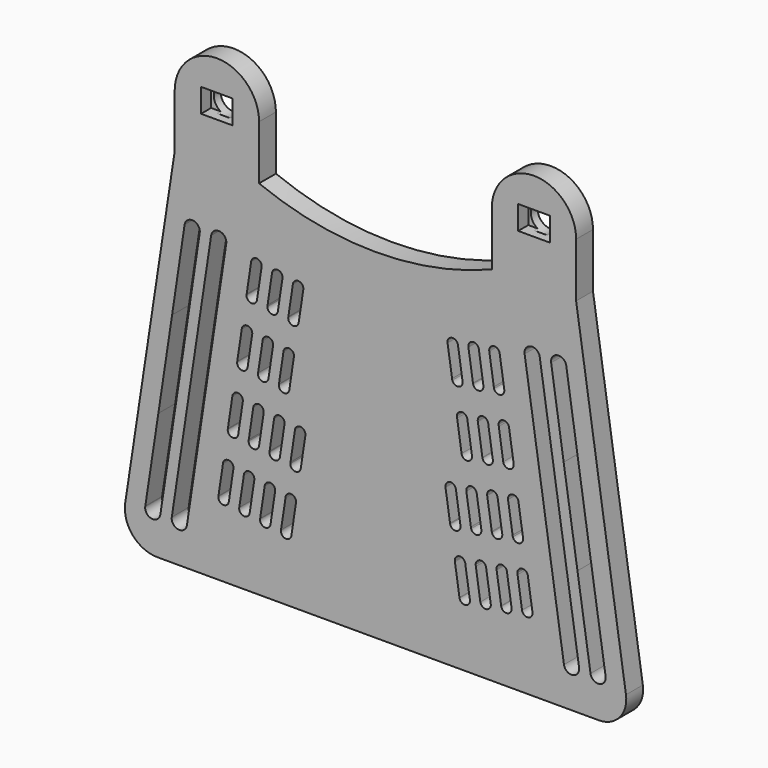
from build123d import *

# Parameters (mm, degrees)
F2_DEPTH  = 4
F4_DEPTH  = 45
F7_DEPTH  = 5
F8_SIZE   = 4
F10_DEPTH = 0.5
F11_W     = 6
F11_H     = 4.5
F12_DEPTH = 2.4
F13_R     = 2.5
F14_DEPTH = 2.4
F15_SCALE = 1.265


with BuildPart() as f2:
    # F1 (on Front) → F2 (new body)
    with BuildSketch(Plane.XZ):
        with BuildLine():
            Line((-22.0757527815, 25.2680218696), (-22.0757527815, 35.5637454262))
            ThreePointArc((-22.0757527815, 35.5637454262), (-30.0757527815, 27.5637454262), (-38.0757527815, 35.5637454262))
            Line((-38.0757527815, 35.5637454262), (-38.0757527815, 25.4128891975))
            Line((-38.0757527815, 25.4128891975), (-47.4559207025, -36.329181879))
            ThreePointArc((-47.4559207025, -36.329181879), (-46.0356215568, -41.2754957961), (-41.3587527006, -43.4226261443))
            Line((-41.3587527006, -43.4226261443), (42.4087057782, -43.4226261443))
            ThreePointArc((42.4087057782, -43.4226261443), (46.3255480791, -41.625651264), (47.5181205277, -37.4845712979))
            Line((47.5181205277, -37.4845712979), (38.0620640947, 25.195091801))
            Line((38.0620640947, 25.195091801), (38.0620640947, 35.5046242638))
            ThreePointArc((38.0620640947, 35.5046242638), (30.0620640947, 27.5046242638), (22.0620640947, 35.5046242638))
            Line((22.0620640947, 35.5046242638), (22.0620640947, 25.2625174648))
            ThreePointArc((22.0620640947, 25.2625174648), (-0.0073767321, 20.996238466), (-22.0757527815, 25.2680218696))
        make_face()
        with BuildLine():
            ThreePointArc((-24.9199371364, -24.1236979149), (-23.8152684216, -23.4298992023), (-22.9644436101, -24.4187099846))
            ThreePointArc((-22.9644436101, -24.4187099846), (-22.9650352879, -24.4531048297), (-22.9668096209, -24.4874589735))
            ThreePointArc((-22.9668096209, -24.4874589735), (-22.9755782668, -24.5675230646), (-22.9907618284, -24.6466217832))
            Line((-22.9907618284, -24.6466217832), (-23.8457765819, -30.3282087618))
            ThreePointArc((-23.8457765819, -30.3282087618), (-23.8516515262, -30.3745925481), (-23.859688101, -30.4206510334))
            ThreePointArc((-23.859688101, -30.4206510334), (-25.0135017777, -31.2107039431), (-25.829048725, -30.0747669831))
            Line((-25.829048725, -30.0747669831), (-24.9644367032, -24.4149932836))
            ThreePointArc((-24.9644367032, -24.4149932836), (-24.9529754647, -24.2676974935), (-24.9199371364, -24.1236979149))
        make_face(mode=Mode.SUBTRACT)
        with BuildLine():
            ThreePointArc((-27.8066737044, -29.7764160909), (-28.9210386465, -30.6212003096), (-29.790425001, -29.5259209082))
            ThreePointArc((-29.790425001, -29.5259209082), (-29.7845160872, -29.479541437), (-29.7764457816, -29.4334888499))
            Line((-29.7764457816, -29.4334888499), (-28.9172701097, -23.7525296011))
            ThreePointArc((-28.9172701097, -23.7525296011), (-28.9084428278, -23.6724719536), (-28.8932013391, -23.5933843765))
            ThreePointArc((-28.8932013391, -23.5933843765), (-27.8046098081, -22.8286526481), (-26.9196867392, -23.8220092306))
            ThreePointArc((-26.9196867392, -23.8220092306), (-26.9306004441, -23.9693466013), (-26.9631033409, -24.1134679789))
            Line((-26.9631033409, -24.1134679789), (-27.8066737044, -29.7764160909))
        make_face(mode=Mode.SUBTRACT)
        with BuildLine():
            ThreePointArc((-19.8961874462, -30.969817599), (-21.0105523884, -31.8146018177), (-21.8799387429, -30.7193224163))
            ThreePointArc((-21.8799387429, -30.7193224163), (-21.874029829, -30.6729429451), (-21.8659595235, -30.6268903581))
            Line((-21.8659595235, -30.6268903581), (-21.0067838516, -24.9459311092))
            ThreePointArc((-21.0067838516, -24.9459311092), (-20.9979565697, -24.8658734616), (-20.9827150809, -24.7867858846))
            ThreePointArc((-20.9827150809, -24.7867858846), (-19.8941235499, -24.0220541562), (-19.0092004811, -25.0154107387))
            ThreePointArc((-19.0092004811, -25.0154107387), (-19.020114186, -25.1627481094), (-19.0526170827, -25.306869487))
            Line((-19.0526170827, -25.306869487), (-19.8961874462, -30.969817599))
        make_face(mode=Mode.SUBTRACT)
        with BuildLine():
            ThreePointArc((-17.0094508783, -25.317099423), (-15.9047821635, -24.6233007104), (-15.053957352, -25.6121114927))
            ThreePointArc((-15.053957352, -25.6121114927), (-15.0545490297, -25.6465063378), (-15.0563233627, -25.6808604816))
            ThreePointArc((-15.0563233627, -25.6808604816), (-15.0650920087, -25.7609245727), (-15.0802755703, -25.8400232914))
            Line((-15.0802755703, -25.8400232914), (-15.9352903237, -31.5216102698))
            ThreePointArc((-15.9352903237, -31.5216102698), (-15.941165268, -31.5679940562), (-15.9492018429, -31.6140525415))
            ThreePointArc((-15.9492018429, -31.6140525415), (-17.1030155195, -32.4041054512), (-17.9185624669, -31.2681684912))
            Line((-17.9185624669, -31.2681684912), (-17.053950445, -25.6083947917))
            ThreePointArc((-17.053950445, -25.6083947917), (-17.0424892066, -25.4610990016), (-17.0094508783, -25.317099423))
        make_face(mode=Mode.SUBTRACT)
        with BuildLine():
            ThreePointArc((-36.1949154749, 13.7739959713), (-34.6532206267, 15.0052036262), (-33.3109119043, 13.5592082636))
            ThreePointArc((-33.3109119043, 13.5592082636), (-33.3149165876, 13.4515163698), (-33.3269085167, 13.3444193337))
            Line((-33.3269085167, 13.3444193337), (-35.6996770762, -2.4969843837))
            Line((-35.6996770762, -2.4969843837), (-38.3178854277, -19.7808170622))
            Line((-38.3178854277, -19.7808170622), (-40.7919538192, -36.1175705818))
            ThreePointArc((-40.7919538192, -36.1175705818), (-42.4145058399, -37.3367570396), (-43.6665870189, -35.7394519968))
            ThreePointArc((-43.6665870189, -35.7394519968), (-43.6589362776, -35.6812091163), (-43.64893273, -35.6233239195))
            Line((-43.64893273, -35.6233239195), (-41.1731284531, -19.3377407819))
            Line((-41.1731284531, -19.3377407819), (-38.5676705325, -2.0674097685))
            Line((-38.5676705325, -2.0674097685), (-36.1949154749, 13.7739959713))
        make_face(mode=Mode.SUBTRACT)
        with BuildLine():
            ThreePointArc((-31.1629785279, 13.610654525), (-29.6212836796, 14.8418621799), (-28.2789749572, 13.3958668173))
            ThreePointArc((-28.2789749572, 13.3958668173), (-28.2830367376, 13.2874109962), (-28.2951993229, 13.179562794))
            Line((-28.2951993229, 13.179562794), (-35.7567134008, -36.279235588))
            ThreePointArc((-35.7567134008, -36.279235588), (-37.40679307, -37.4967071972), (-38.6242646658, -35.8466275181))
            Line((-38.6242646658, -35.8466275181), (-31.1629785279, 13.610654525))
        make_face(mode=Mode.SUBTRACT)
        with BuildLine():
            ThreePointArc((-27.1192628681, -11.8200681817), (-26.0405279416, -11.0197440959), (-25.1384340996, -12.0149397471))
            ThreePointArc((-25.1384340996, -12.0149397471), (-25.1413052575, -12.0906634042), (-25.1499022441, -12.1659522321))
            Line((-25.1499022441, -12.1659522321), (-26.0145142659, -17.8257259315))
            ThreePointArc((-26.0145142659, -17.8257259315), (-26.0259755044, -17.9730217217), (-26.0590138327, -18.1170213003))
            ThreePointArc((-26.0590138327, -18.1170213003), (-27.1976042776, -18.805104098), (-28.0121413482, -17.7532602416))
            ThreePointArc((-28.0121413482, -17.7532602416), (-28.0033727023, -17.6731961505), (-27.9881891407, -17.5940974319))
            Line((-27.9881891407, -17.5940974319), (-27.1331743873, -11.9125104535))
            ThreePointArc((-27.1331743873, -11.9125104535), (-27.127299443, -11.8661266671), (-27.1192628681, -11.8200681817))
        make_face(mode=Mode.SUBTRACT)
        with BuildLine():
            ThreePointArc((-24.2441684252, -6.162277124), (-25.3585333674, -7.0070613427), (-26.2279197218, -5.9117819413))
            ThreePointArc((-26.2279197218, -5.9117819413), (-26.222010808, -5.8654024701), (-26.2139405024, -5.819349883))
            Line((-26.2139405024, -5.819349883), (-25.3547648305, -0.1383906342))
            ThreePointArc((-25.3547648305, -0.1383906342), (-25.3459375487, -0.0583329867), (-25.3306960599, 0.0207545905))
            ThreePointArc((-25.3306960599, 0.0207545905), (-24.2421045289, 0.7854863188), (-23.3571814601, -0.2078702636))
            ThreePointArc((-23.3571814601, -0.2078702636), (-23.3680951649, -0.3552076344), (-23.4005980617, -0.499329012))
            Line((-23.4005980617, -0.499329012), (-24.2441684252, -6.162277124))
        make_face(mode=Mode.SUBTRACT)
        with BuildLine():
            ThreePointArc((-14.1752633719, -19.8407363468), (-15.2638549029, -20.6054680752), (-16.1487779717, -19.6121114927))
            ThreePointArc((-16.1487779717, -19.6121114927), (-16.1378642669, -19.464774122), (-16.1053613701, -19.3206527444))
            Line((-16.1053613701, -19.3206527444), (-15.2617910066, -13.6577046323))
            ThreePointArc((-15.2617910066, -13.6577046323), (-14.198834198, -12.807774168), (-13.2727047124, -13.8050420092))
            ThreePointArc((-13.2727047124, -13.8050420092), (-13.2740393524, -13.8566898434), (-13.27803971, -13.9081998151))
            ThreePointArc((-13.27803971, -13.9081998151), (-13.2839486238, -13.9545792862), (-13.2920189294, -14.0006318733))
            Line((-13.2920189294, -14.0006318733), (-14.1511946013, -19.6815911222))
            ThreePointArc((-14.1511946013, -19.6815911222), (-14.1600218831, -19.7616487697), (-14.1752633719, -19.8407363468))
        make_face(mode=Mode.SUBTRACT)
        with BuildLine():
            ThreePointArc((-22.0857496301, -18.6473348387), (-23.1743411611, -19.4120665671), (-24.0592642299, -18.4187099846))
            ThreePointArc((-24.0592642299, -18.4187099846), (-24.048350525, -18.2713726139), (-24.0158476283, -18.1272512363))
            Line((-24.0158476283, -18.1272512363), (-23.1722772648, -12.4643031242))
            ThreePointArc((-23.1722772648, -12.4643031242), (-22.1093204561, -11.6143726599), (-21.1831909706, -12.6116405012))
            ThreePointArc((-21.1831909706, -12.6116405012), (-21.1845256106, -12.6632883353), (-21.1885259681, -12.714798307))
            ThreePointArc((-21.1885259681, -12.714798307), (-21.1944348819, -12.7611777781), (-21.2025051875, -12.8072303652))
            Line((-21.2025051875, -12.8072303652), (-22.0616808594, -18.4881896141))
            ThreePointArc((-22.0616808594, -18.4881896141), (-22.0705081413, -18.5682472616), (-22.0857496301, -18.6473348387))
        make_face(mode=Mode.SUBTRACT)
        with BuildLine():
            ThreePointArc((-18.1485275746, -19.3104228084), (-19.2871180194, -19.9985056061), (-20.1016550901, -18.9466617497))
            ThreePointArc((-20.1016550901, -18.9466617497), (-20.0928864441, -18.8665976586), (-20.0777028825, -18.78749894))
            Line((-20.0777028825, -18.78749894), (-19.2226881291, -13.1059119615))
            ThreePointArc((-19.2226881291, -13.1059119615), (-19.2168131848, -13.0595281752), (-19.2087766099, -13.0134696898))
            ThreePointArc((-19.2087766099, -13.0134696898), (-18.1300416835, -12.213145604), (-17.2279478415, -13.2083412552))
            ThreePointArc((-17.2279478415, -13.2083412552), (-17.2308189994, -13.2840649122), (-17.239415986, -13.3593537401))
            Line((-17.239415986, -13.3593537401), (-18.1040280078, -19.0191274396))
            ThreePointArc((-18.1040280078, -19.0191274396), (-18.1154892462, -19.1664232298), (-18.1485275746, -19.3104228084))
        make_face(mode=Mode.SUBTRACT)
        with BuildLine():
            ThreePointArc((-21.3574318572, -0.509558948), (-20.2527631425, 0.1842397646), (-19.401938331, -0.8045710177))
            ThreePointArc((-19.401938331, -0.8045710177), (-19.4025300087, -0.8389658628), (-19.4043043417, -0.8733200066))
            ThreePointArc((-19.4043043417, -0.8733200066), (-19.4130729877, -0.9533840977), (-19.4282565493, -1.0324828164))
            Line((-19.4282565493, -1.0324828164), (-20.2832713027, -6.7140697948))
            ThreePointArc((-20.2832713027, -6.7140697948), (-20.289146247, -6.7604535812), (-20.2971828219, -6.8065120665))
            ThreePointArc((-20.2971828219, -6.8065120665), (-21.4509964985, -7.5965649762), (-22.2665434458, -6.4606280162))
            Line((-22.2665434458, -6.4606280162), (-21.401931424, -0.8008543167))
            ThreePointArc((-21.401931424, -0.8008543167), (-21.3904701856, -0.6535585266), (-21.3574318572, -0.509558948))
        make_face(mode=Mode.SUBTRACT)
        with BuildLine():
            ThreePointArc((-16.333682167, -7.3556786321), (-17.4480471092, -8.2004628508), (-18.3174334637, -7.1051834494))
            ThreePointArc((-18.3174334637, -7.1051834494), (-18.3115245499, -7.0588039782), (-18.3034542443, -7.0127513911))
            Line((-18.3034542443, -7.0127513911), (-17.4442785724, -1.3317921423))
            ThreePointArc((-17.4442785724, -1.3317921423), (-17.4354512905, -1.2517344948), (-17.4202098017, -1.1726469176))
            ThreePointArc((-17.4202098017, -1.1726469176), (-16.3316182707, -0.4079151893), (-15.4466952019, -1.4012717717))
            ThreePointArc((-15.4466952019, -1.4012717717), (-15.4576089068, -1.5486091425), (-15.4901118035, -1.6927305201))
            Line((-15.4901118035, -1.6927305201), (-16.333682167, -7.3556786321))
        make_face(mode=Mode.SUBTRACT)
        with BuildLine():
            ThreePointArc((17.9185624669, -31.2681684912), (17.9271594534, -31.3434573191), (17.9300306113, -31.4191809762))
            ThreePointArc((17.9300306113, -31.4191809762), (17.0279367694, -32.4143766274), (15.9492018429, -31.6140525415))
            ThreePointArc((15.9492018429, -31.6140525415), (15.941165268, -31.5679940562), (15.9352903237, -31.5216102698))
            Line((15.9352903237, -31.5216102698), (15.0802755703, -25.8400232914))
            ThreePointArc((15.0802755703, -25.8400232914), (15.0650920087, -25.7609245727), (15.0563233627, -25.6808604816))
            ThreePointArc((15.0563233627, -25.6808604816), (15.8708604334, -24.6290166253), (17.0094508783, -25.317099423))
            ThreePointArc((17.0094508783, -25.317099423), (17.0424892066, -25.4610990016), (17.053950445, -25.6083947917))
            Line((17.053950445, -25.6083947917), (17.9185624669, -31.2681684912))
        make_face(mode=Mode.SUBTRACT)
        with BuildLine():
            ThreePointArc((21.8799387429, -30.7193224163), (21.8839391004, -30.7708323879), (21.8852737404, -30.8224802221))
            ThreePointArc((21.8852737404, -30.8224802221), (20.9591442548, -31.8197480633), (19.8961874462, -30.969817599))
            Line((19.8961874462, -30.969817599), (19.0526170827, -25.306869487))
            ThreePointArc((19.0526170827, -25.306869487), (19.020114186, -25.1627481094), (19.0092004811, -25.0154107387))
            ThreePointArc((19.0092004811, -25.0154107387), (19.8941235499, -24.0220541562), (20.9827150809, -24.7867858846))
            ThreePointArc((20.9827150809, -24.7867858846), (20.9979565697, -24.8658734616), (21.0067838516, -24.9459311092))
            Line((21.0067838516, -24.9459311092), (21.8659595235, -30.6268903581))
            ThreePointArc((21.8659595235, -30.6268903581), (21.874029829, -30.6729429451), (21.8799387429, -30.7193224163))
        make_face(mode=Mode.SUBTRACT)
        with BuildLine():
            ThreePointArc((22.9668096209, -24.4874589735), (23.7813466915, -23.4356151172), (24.9199371364, -24.1236979149))
            ThreePointArc((24.9199371364, -24.1236979149), (24.9529754647, -24.2676974935), (24.9644367032, -24.4149932836))
            Line((24.9644367032, -24.4149932836), (25.829048725, -30.0747669831))
            ThreePointArc((25.829048725, -30.0747669831), (25.8376457116, -30.150055811), (25.8405168695, -30.2257794681))
            ThreePointArc((25.8405168695, -30.2257794681), (24.9384230275, -31.2209751193), (23.859688101, -30.4206510334))
            ThreePointArc((23.859688101, -30.4206510334), (23.8516515262, -30.3745925481), (23.8457765819, -30.3282087618))
            Line((23.8457765819, -30.3282087618), (22.9907618284, -24.6466217832))
            ThreePointArc((22.9907618284, -24.6466217832), (22.9755782668, -24.5675230646), (22.9668096209, -24.4874589735))
        make_face(mode=Mode.SUBTRACT)
        with BuildLine():
            ThreePointArc((29.790425001, -29.5259209082), (29.7944253586, -29.5774308798), (29.7957599986, -29.629078714))
            ThreePointArc((29.7957599986, -29.629078714), (28.869630513, -30.6263465552), (27.8066737044, -29.7764160909))
            Line((27.8066737044, -29.7764160909), (26.9631033409, -24.1134679789))
            ThreePointArc((26.9631033409, -24.1134679789), (26.9306004441, -23.9693466013), (26.9196867392, -23.8220092306))
            ThreePointArc((26.9196867392, -23.8220092306), (27.8046098081, -22.8286526481), (28.8932013391, -23.5933843765))
            ThreePointArc((28.8932013391, -23.5933843765), (28.9084428278, -23.6724719536), (28.9172701097, -23.7525296011))
            Line((28.9172701097, -23.7525296011), (29.7764457816, -29.4334888499))
            ThreePointArc((29.7764457816, -29.4334888499), (29.7845160872, -29.479541437), (29.790425001, -29.5259209082))
        make_face(mode=Mode.SUBTRACT)
        with BuildLine():
            ThreePointArc((13.27803971, -13.9081998151), (14.1474260644, -12.8129204137), (15.2617910066, -13.6577046323))
            Line((15.2617910066, -13.6577046323), (16.1053613701, -19.3206527444))
            ThreePointArc((16.1053613701, -19.3206527444), (16.1378642669, -19.464774122), (16.1487779717, -19.6121114927))
            ThreePointArc((16.1487779717, -19.6121114927), (15.2638549029, -20.6054680752), (14.1752633719, -19.8407363468))
            ThreePointArc((14.1752633719, -19.8407363468), (14.1600218831, -19.7616487697), (14.1511946013, -19.6815911222))
            Line((14.1511946013, -19.6815911222), (13.2920189294, -14.0006318733))
            ThreePointArc((13.2920189294, -14.0006318733), (13.2839486238, -13.9545792862), (13.27803971, -13.9081998151))
        make_face(mode=Mode.SUBTRACT)
        with BuildLine():
            ThreePointArc((17.239415986, -13.3593537401), (18.0549629333, -12.2234167802), (19.2087766099, -13.0134696898))
            ThreePointArc((19.2087766099, -13.0134696898), (19.2168131848, -13.0595281752), (19.2226881291, -13.1059119615))
            Line((19.2226881291, -13.1059119615), (20.0777028825, -18.78749894))
            ThreePointArc((20.0777028825, -18.78749894), (20.0928864441, -18.8665976586), (20.1016550901, -18.9466617497))
            ThreePointArc((20.1016550901, -18.9466617497), (20.1034294231, -18.9810158935), (20.1040211008, -19.0154107387))
            ThreePointArc((20.1040211008, -19.0154107387), (19.2531962893, -20.0042215209), (18.1485275746, -19.3104228084))
            ThreePointArc((18.1485275746, -19.3104228084), (18.1154892462, -19.1664232298), (18.1040280078, -19.0191274396))
            Line((18.1040280078, -19.0191274396), (17.239415986, -13.3593537401))
        make_face(mode=Mode.SUBTRACT)
        with BuildLine():
            ThreePointArc((21.1885259681, -12.714798307), (22.0579123226, -11.6195189056), (23.1722772648, -12.4643031242))
            Line((23.1722772648, -12.4643031242), (24.0158476283, -18.1272512363))
            ThreePointArc((24.0158476283, -18.1272512363), (24.048350525, -18.2713726139), (24.0592642299, -18.4187099846))
            ThreePointArc((24.0592642299, -18.4187099846), (23.1743411611, -19.4120665671), (22.0857496301, -18.6473348387))
            ThreePointArc((22.0857496301, -18.6473348387), (22.0705081413, -18.5682472616), (22.0616808594, -18.4881896141))
            Line((22.0616808594, -18.4881896141), (21.2025051875, -12.8072303652))
            ThreePointArc((21.2025051875, -12.8072303652), (21.1944348819, -12.7611777781), (21.1885259681, -12.714798307))
        make_face(mode=Mode.SUBTRACT)
        with BuildLine():
            ThreePointArc((15.4466952019, -1.4012717717), (16.3316182707, -0.4079151893), (17.4202098017, -1.1726469176))
            ThreePointArc((17.4202098017, -1.1726469176), (17.4354512905, -1.2517344948), (17.4442785724, -1.3317921423))
            Line((17.4442785724, -1.3317921423), (18.3034542443, -7.0127513911))
            ThreePointArc((18.3034542443, -7.0127513911), (18.3115245499, -7.0588039782), (18.3174334637, -7.1051834494))
            ThreePointArc((18.3174334637, -7.1051834494), (18.3214338212, -7.156693421), (18.3227684612, -7.2083412552))
            ThreePointArc((18.3227684612, -7.2083412552), (17.3966389757, -8.2056090964), (16.333682167, -7.3556786321))
            Line((16.333682167, -7.3556786321), (15.4901118035, -1.6927305201))
            ThreePointArc((15.4901118035, -1.6927305201), (15.4576089068, -1.5486091425), (15.4466952019, -1.4012717717))
        make_face(mode=Mode.SUBTRACT)
        with BuildLine():
            ThreePointArc((22.2665434458, -6.4606280162), (22.2751404324, -6.5359168441), (22.2780115903, -6.6116405012))
            ThreePointArc((22.2780115903, -6.6116405012), (21.3759177483, -7.6068361524), (20.2971828219, -6.8065120665))
            ThreePointArc((20.2971828219, -6.8065120665), (20.289146247, -6.7604535812), (20.2832713027, -6.7140697948))
            Line((20.2832713027, -6.7140697948), (19.4282565493, -1.0324828164))
            ThreePointArc((19.4282565493, -1.0324828164), (19.4130729877, -0.9533840977), (19.4043043417, -0.8733200066))
            ThreePointArc((19.4043043417, -0.8733200066), (20.2188414124, 0.1785238498), (21.3574318572, -0.509558948))
            ThreePointArc((21.3574318572, -0.509558948), (21.3904701856, -0.6535585266), (21.401931424, -0.8008543167))
            Line((21.401931424, -0.8008543167), (22.2665434458, -6.4606280162))
        make_face(mode=Mode.SUBTRACT)
        with BuildLine():
            ThreePointArc((28.0121413482, -17.7532602416), (28.0139156813, -17.7876143854), (28.014507359, -17.8220092306))
            ThreePointArc((28.014507359, -17.8220092306), (27.1636825475, -18.8108200128), (26.0590138327, -18.1170213003))
            ThreePointArc((26.0590138327, -18.1170213003), (26.0259755044, -17.9730217217), (26.0145142659, -17.8257259315))
            Line((26.0145142659, -17.8257259315), (25.1499022441, -12.1659522321))
            ThreePointArc((25.1499022441, -12.1659522321), (25.9654491915, -11.0300152721), (27.1192628681, -11.8200681817))
            ThreePointArc((27.1192628681, -11.8200681817), (27.127299443, -11.8661266671), (27.1331743873, -11.9125104535))
            Line((27.1331743873, -11.9125104535), (27.9881891407, -17.5940974319))
            ThreePointArc((27.9881891407, -17.5940974319), (28.0033727023, -17.6731961505), (28.0121413482, -17.7532602416))
        make_face(mode=Mode.SUBTRACT)
        with BuildLine():
            ThreePointArc((28.2951993229, 13.179562794), (29.5134290616, 14.8297566202), (31.1629785279, 13.610654525))
            Line((31.1629785279, 13.610654525), (38.6242646658, -35.8466275181))
            ThreePointArc((38.6242646658, -35.8466275181), (38.6364272538, -35.9544757318), (38.640489035, -36.0629315647))
            ThreePointArc((38.640489035, -36.0629315647), (37.2989448562, -37.5088697843), (35.7567134008, -36.279235588))
            Line((35.7567134008, -36.279235588), (28.2951993229, 13.179562794))
        make_face(mode=Mode.SUBTRACT)
        with BuildLine():
            ThreePointArc((33.3269085167, 13.3444193337), (34.5461235855, 14.9932117427), (36.1949154749, 13.7739959713))
            Line((36.1949154749, 13.7739959713), (38.5676705325, -2.0674097685))
            Line((38.5676705325, -2.0674097685), (41.1731284531, -19.3377407819))
            Line((41.1731284531, -19.3377407819), (43.64893273, -35.6233239195))
            ThreePointArc((43.64893273, -35.6233239195), (43.6589362776, -35.6812091163), (43.6665870189, -35.7394519968))
            ThreePointArc((43.6665870189, -35.7394519968), (43.6732003846, -35.8191744919), (43.6754070787, -35.8991403805))
            ThreePointArc((43.6754070787, -35.8991403805), (42.3349350973, -37.3449977778), (40.7919538192, -36.1175705818))
            Line((40.7919538192, -36.1175705818), (38.3178854277, -19.7808170622))
            Line((38.3178854277, -19.7808170622), (35.6996770762, -2.4969843837))
            Line((35.6996770762, -2.4969843837), (33.3269085167, 13.3444193337))
        make_face(mode=Mode.SUBTRACT)
        with BuildLine():
            ThreePointArc((23.3571814601, -0.2078702636), (24.2421045289, 0.7854863188), (25.3306960599, 0.0207545905))
            ThreePointArc((25.3306960599, 0.0207545905), (25.3459375487, -0.0583329867), (25.3547648305, -0.1383906342))
            Line((25.3547648305, -0.1383906342), (26.2139405024, -5.819349883))
            ThreePointArc((26.2139405024, -5.819349883), (26.222010808, -5.8654024701), (26.2279197218, -5.9117819413))
            ThreePointArc((26.2279197218, -5.9117819413), (26.2319200794, -5.9632919129), (26.2332547194, -6.0149397471))
            ThreePointArc((26.2332547194, -6.0149397471), (25.3071252338, -7.0122075883), (24.2441684252, -6.162277124))
            Line((24.2441684252, -6.162277124), (23.4005980617, -0.499329012))
            ThreePointArc((23.4005980617, -0.499329012), (23.3680951649, -0.3552076344), (23.3571814601, -0.2078702636))
        make_face(mode=Mode.SUBTRACT)
        with BuildLine():
            ThreePointArc((-19.6097719856, 11.1498358427), (-18.546815177, 11.999766307), (-17.6206856914, 11.0024984658))
            ThreePointArc((-17.6206856914, 11.0024984658), (-17.6220203314, 10.9508506316), (-17.6260206889, 10.8993406599))
            ThreePointArc((-17.6260206889, 10.8993406599), (-17.6319296028, 10.8529611888), (-17.6399999083, 10.8069086017))
            Line((-17.6399999083, 10.8069086017), (-18.4991755802, 5.1259493528))
            ThreePointArc((-18.4991755802, 5.1259493528), (-18.5080028621, 5.0458917053), (-18.5232443509, 4.9668041282))
            ThreePointArc((-18.5232443509, 4.9668041282), (-19.6118358819, 4.2020723998), (-20.4967589507, 5.1954289823))
            ThreePointArc((-20.4967589507, 5.1954289823), (-20.4858452458, 5.3427663531), (-20.4533423491, 5.4868877306))
            Line((-20.4533423491, 5.4868877306), (-19.6097719856, 11.1498358427))
        make_face(mode=Mode.SUBTRACT)
        with BuildLine():
            ThreePointArc((-23.5567575889, 11.7940707852), (-22.4780226624, 12.594394871), (-21.5759288205, 11.5991992198))
            ThreePointArc((-21.5759288205, 11.5991992198), (-21.5787999784, 11.5234755628), (-21.5873969649, 11.4481867349))
            Line((-21.5873969649, 11.4481867349), (-22.4520089868, 5.7884130354))
            ThreePointArc((-22.4520089868, 5.7884130354), (-22.4634702252, 5.6411172453), (-22.4965085535, 5.4971176667))
            ThreePointArc((-22.4965085535, 5.4971176667), (-23.6350989984, 4.8090348689), (-24.4496360691, 5.8608787253))
            ThreePointArc((-24.4496360691, 5.8608787253), (-24.4408674231, 5.9409428164), (-24.4256838615, 6.020041535))
            Line((-24.4256838615, 6.020041535), (-23.5706691081, 11.7016285135))
            ThreePointArc((-23.5706691081, 11.7016285135), (-23.5647941638, 11.7480122998), (-23.5567575889, 11.7940707852))
        make_face(mode=Mode.SUBTRACT)
        with BuildLine():
            ThreePointArc((-14.5860222954, 4.3037161586), (-15.7246127403, 3.6156333608), (-16.5391498109, 4.6674772172))
            ThreePointArc((-16.5391498109, 4.6674772172), (-16.530381165, 4.7475413083), (-16.5151976034, 4.8266400269))
            Line((-16.5151976034, 4.8266400269), (-15.6601828499, 10.5082270054))
            ThreePointArc((-15.6601828499, 10.5082270054), (-15.6543079056, 10.5546107917), (-15.6462713308, 10.6006692771))
            ThreePointArc((-15.6462713308, 10.6006692771), (-14.5675364043, 11.4009933629), (-13.6654425623, 10.4057977117))
            ThreePointArc((-13.6654425623, 10.4057977117), (-13.6683137202, 10.3300740547), (-13.6769107068, 10.2547852268))
            Line((-13.6769107068, 10.2547852268), (-14.5415227286, 4.5950115273))
            ThreePointArc((-14.5415227286, 4.5950115273), (-14.5529839671, 4.4477157372), (-14.5860222954, 4.3037161586))
        make_face(mode=Mode.SUBTRACT)
        with BuildLine():
            ThreePointArc((13.6769107068, 10.2547852268), (14.4924576541, 11.3907221868), (15.6462713308, 10.6006692771))
            ThreePointArc((15.6462713308, 10.6006692771), (15.6543079056, 10.5546107917), (15.6601828499, 10.5082270054))
            Line((15.6601828499, 10.5082270054), (16.5151976034, 4.8266400269))
            ThreePointArc((16.5151976034, 4.8266400269), (16.530381165, 4.7475413083), (16.5391498109, 4.6674772172))
            ThreePointArc((16.5391498109, 4.6674772172), (16.5409241439, 4.6331230734), (16.5415158217, 4.5987282283))
            ThreePointArc((16.5415158217, 4.5987282283), (15.6906910102, 3.609917446), (14.5860222954, 4.3037161586))
            ThreePointArc((14.5860222954, 4.3037161586), (14.5529839671, 4.4477157372), (14.5415227286, 4.5950115273))
            Line((14.5415227286, 4.5950115273), (13.6769107068, 10.2547852268))
        make_face(mode=Mode.SUBTRACT)
        with BuildLine():
            ThreePointArc((17.6260206889, 10.8993406599), (18.4954070434, 11.9946200613), (19.6097719856, 11.1498358427))
            Line((19.6097719856, 11.1498358427), (20.4533423491, 5.4868877306))
            ThreePointArc((20.4533423491, 5.4868877306), (20.4858452458, 5.3427663531), (20.4967589507, 5.1954289823))
            ThreePointArc((20.4967589507, 5.1954289823), (19.6118358819, 4.2020723998), (18.5232443509, 4.9668041282))
            ThreePointArc((18.5232443509, 4.9668041282), (18.5080028621, 5.0458917053), (18.4991755802, 5.1259493528))
            Line((18.4991755802, 5.1259493528), (17.6399999083, 10.8069086017))
            ThreePointArc((17.6399999083, 10.8069086017), (17.6319296028, 10.8529611888), (17.6260206889, 10.8993406599))
        make_face(mode=Mode.SUBTRACT)
        with BuildLine():
            ThreePointArc((21.5873969649, 11.4481867349), (22.4029439123, 12.5841236949), (23.5567575889, 11.7940707852))
            ThreePointArc((23.5567575889, 11.7940707852), (23.5647941638, 11.7480122998), (23.5706691081, 11.7016285135))
            Line((23.5706691081, 11.7016285135), (24.4256838615, 6.020041535))
            ThreePointArc((24.4256838615, 6.020041535), (24.4408674231, 5.9409428164), (24.4496360691, 5.8608787253))
            ThreePointArc((24.4496360691, 5.8608787253), (24.4514104021, 5.8265245815), (24.4520020798, 5.7921297364))
            ThreePointArc((24.4520020798, 5.7921297364), (23.6011772683, 4.8033189541), (22.4965085535, 5.4971176667))
            ThreePointArc((22.4965085535, 5.4971176667), (22.4634702252, 5.6411172453), (22.4520089868, 5.7884130354))
            Line((22.4520089868, 5.7884130354), (21.5873969649, 11.4481867349))
        make_face(mode=Mode.SUBTRACT)
        with BuildLine():
            ThreePointArc((-38.0757527815, 35.5637454262), (-30.0757527815, 27.5637454262), (-22.0757527815, 35.5637454262))
            ThreePointArc((-22.0757527815, 35.5637454262), (-30.0757527815, 43.5637454262), (-38.0757527815, 35.5637454262))
        make_face()
        with BuildLine():
            ThreePointArc((38.0620640947, 35.5046242638), (30.0620640947, 43.5046242638), (22.0620640947, 35.5046242638))
            ThreePointArc((22.0620640947, 35.5046242638), (30.0620640947, 27.5046242638), (38.0620640947, 35.5046242638))
        make_face()
    extrude(amount=F2_DEPTH)

    # F3 (on face) → F4 (join)
    with BuildSketch(Plane(origin=(0, 0, -43.4226261443), x_dir=(1, 0, 0), z_dir=(0, 0, -1))):
        Polygon((12.276064828, 0), (0, 0), (-12.276064828, 0), (-12.276064828, -2.6665811893), (-11.4113150537, -4.2472537607), (-8.8709483296, -4.2472537607), (-10, -2.1834648357), (-10, -1.6834648357), (0, -1.6834648357), (10, -1.6834648357), (10, -2.1834648357), (8.8709483296, -4.2472537607), (11.4113150537, -4.2472537607), (12.276064828, -2.6665811893), align=None)
    extrude(amount=-F4_DEPTH)

    # F6 (on offset) → F7 (join)
    with BuildSketch(Plane.XY.offset(1.5773738557)):
        Polygon((-12.276064828, 0), (12.276064828, 0), (12.276064828, 2.6665811893), (11.4113150537, 4.2472537607), (8.8709483296, 4.2472537607), (-8.8709483296, 4.2472537607), (-11.4113150537, 4.2472537607), (-12.276064828, 2.6665811893), align=None)
    extrude(amount=F7_DEPTH)

    # F8
    f8_edges = [f2.edges().sort_by_distance(p)[0] for p in [
        (0, 4.247254, 6.577374),
    ]]
    chamfer(f8_edges, length=F8_SIZE)

    # F9 (on face) → F10 (cut)
    with BuildSketch(Plane(origin=(0, 1.6834648357, 0), x_dir=(-1, 0, 0), z_dir=(0, 1, 0))):
        with BuildLine():
            Line((-10, -32.0226261443), (-10, -26.8130564385))
            ThreePointArc((-10, -26.8130564385), (-11.6443264556, -29.4178412914), (-10, -32.0226261443))
        make_face()
        with BuildLine():
            ThreePointArc((9.9999997765, -32.0226261443), (11.6443262321, -29.4178412914), (9.9999997765, -26.8130564385))
            Line((9.9999997765, -26.8130564385), (9.9999997765, -32.0226261443))
        make_face()
    extrude(amount=F10_DEPTH, mode=Mode.SUBTRACT)

    # F11 (on face) → F12 (cut)
    with BuildSketch(Plane.XZ.offset(4)):
        with Locations((-30.0757527815, 35.5637454262)):
            Rectangle(F11_W, F11_H)
        with Locations((30.0757527815, 35.5637454262)):
            Rectangle(F11_W, F11_H)
    extrude(amount=-F12_DEPTH, mode=Mode.SUBTRACT)

    # F13 (on face) → F14 (cut)
    with BuildSketch(Plane(origin=(0, 0, 0), x_dir=(-1, 0, 0), z_dir=(0, 1, 0))):
        with Locations((-30.0620640947, 35.5046242638)):
            Circle(F13_R)
        with Locations((30.0620640947, 35.5046242638)):
            Circle(F13_R)
    extrude(amount=-F14_DEPTH, mode=Mode.SUBTRACT)


with BuildPart() as f2_1:
    # F15: moved
    add(f2.part.scale(F15_SCALE))


solid = f2_1.part
